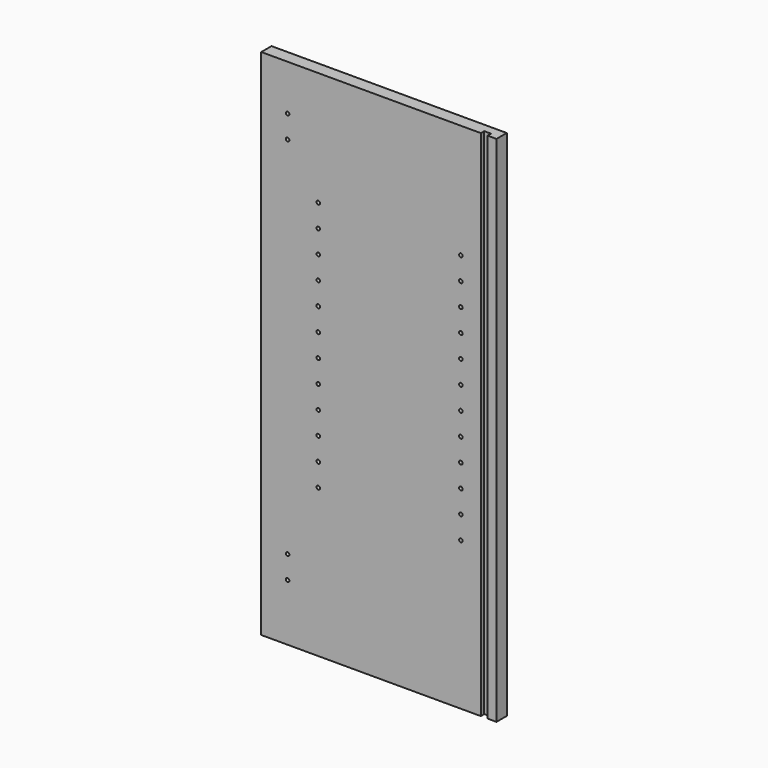
from build123d import *

# Parameters (mm, degrees)
F0_W     = 330
F0_H     = 720
F1_DEPTH = 18
F3_D     = 5
F3_DEPTH = 12
F3_TIP   = 1.5021515476
F4_W     = 9.5
F4_H     = 720
F5_DEPTH = 6
F6_R     = 2.5
F7_DEPTH = 12


with BuildPart() as f1:
    # F0 (on Front) → F1 (new body)
    with BuildSketch(Plane.XZ):
        with Locations((-165, 360)):
            Rectangle(F0_W, F0_H)
    extrude(amount=F1_DEPTH)

    # F3
    with Locations(Plane.XZ.offset(18)):
        with Locations((-293, 656), (-293, 624), (-293, 112), (-293, 80)):
            Hole(F3_D / 2, depth=F3_DEPTH)
            with Locations((0, 0, -(F3_DEPTH + F3_TIP / 2))):  # 118° drill point
                Cone(0, F3_D / 2, F3_TIP, mode=Mode.SUBTRACT)

    # F4 (on face) → F5 (cut)
    with BuildSketch(Plane.XZ.offset(18)):
        with Locations((-17.25, 360)):
            Rectangle(F4_W, F4_H)
    extrude(amount=-F5_DEPTH, mode=Mode.SUBTRACT)

    # F6 (on face) → F7 (cut)
    with BuildSketch(Plane.XZ.offset(18)):
        with Locations((-250, 208)):
            Circle(F6_R)
        with Locations((-250, 240)):
            Circle(F6_R)
        with Locations((-250, 272)):
            Circle(F6_R)
        with Locations((-250, 304)):
            Circle(F6_R)
        with Locations((-250, 336)):
            Circle(F6_R)
        with Locations((-250, 368)):
            Circle(F6_R)
        with Locations((-250, 400)):
            Circle(F6_R)
        with Locations((-250, 432)):
            Circle(F6_R)
        with Locations((-250, 464)):
            Circle(F6_R)
        with Locations((-250, 496)):
            Circle(F6_R)
        with Locations((-250, 528)):
            Circle(F6_R)
        with Locations((-250, 560)):
            Circle(F6_R)
        with Locations((-50, 208)):
            Circle(F6_R)
        with Locations((-50, 240)):
            Circle(F6_R)
        with Locations((-50, 272)):
            Circle(F6_R)
        with Locations((-50, 304)):
            Circle(F6_R)
        with Locations((-50, 336)):
            Circle(F6_R)
        with Locations((-50, 368)):
            Circle(F6_R)
        with Locations((-50, 400)):
            Circle(F6_R)
        with Locations((-50, 432)):
            Circle(F6_R)
        with Locations((-50, 464)):
            Circle(F6_R)
        with Locations((-50, 496)):
            Circle(F6_R)
        with Locations((-50, 528)):
            Circle(F6_R)
        with Locations((-50, 560)):
            Circle(F6_R)
    extrude(amount=-F7_DEPTH, mode=Mode.SUBTRACT)


solid = f1.part
